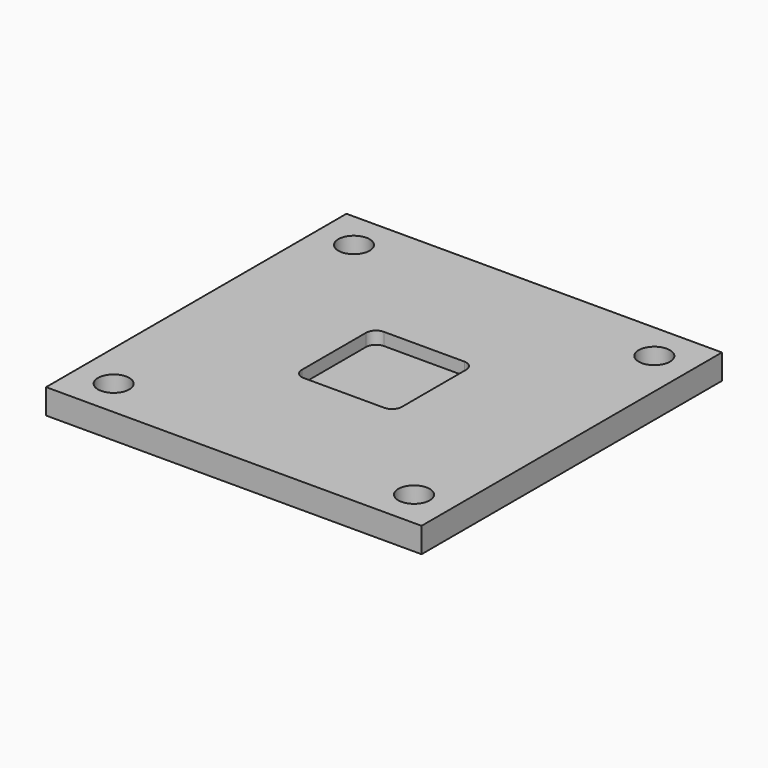
from build123d import *

# Parameters (mm, degrees)
F0_W     = 381
F0_H     = 381
F1_DEPTH = 25.4
F2_W     = 101.6
F2_H     = 101.6
F3_DEPTH = 12.7
F4_R     = 10
F5_R     = 15.875
F6_DEPTH = 50


with BuildPart() as f1:
    # F0 (on Top) → F1 (new body)
    with BuildSketch(Plane.XY):
        Rectangle(F0_W, F0_H)
    extrude(amount=F1_DEPTH)

    # F2 (on face) → F3 (cut)
    with BuildSketch(Plane.XY.offset(25.4)):
        Rectangle(F2_W, F2_H)
    extrude(amount=-F3_DEPTH, mode=Mode.SUBTRACT)

    # F4
    f4_edges = [f1.edges().sort_by_distance(p)[0] for p in [
        (50.8, 50.8, 19.05),
        (-50.8, 50.8, 19.05),
        (-50.8, -50.8, 19.05),
        (50.8, -50.8, 19.05),
    ]]
    fillet(f4_edges, radius=F4_R)

    # F5 (on face) → F6 (cut)
    with BuildSketch(Plane.XY.offset(25.4)):
        with Locations((-152.4, -152.4)):
            Circle(F5_R)
        with Locations((-152.4, 152.4)):
            Circle(F5_R)
        with Locations((152.4, -152.4)):
            Circle(F5_R)
        with Locations((152.4, 152.4)):
            Circle(F5_R)
    extrude(amount=-F6_DEPTH, mode=Mode.SUBTRACT)


solid = f1.part
